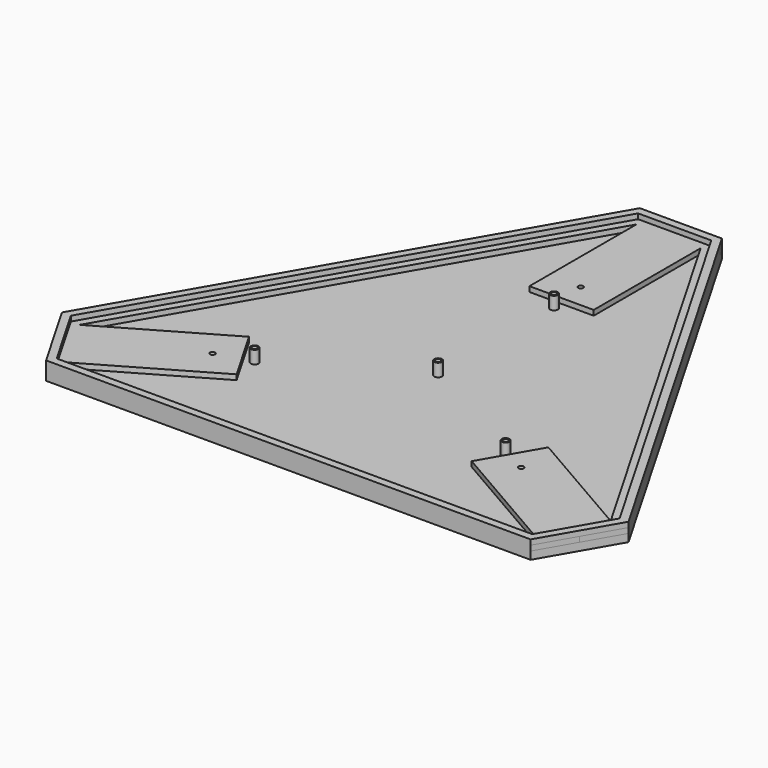
from build123d import *

# Parameters (mm, degrees)
F0_R     = 1
F1_DEPTH = 2
F2_R     = 1
F3_DEPTH = 3
F4_R     = 1.5
F4_R_2   = 1
F5_DEPTH = 5
F7_DEPTH = 2


with BuildPart() as f1:
    # F0 (on Top) → F1 (new body)
    with BuildSketch(Plane.XY):
        Polygon((0, 52), (0, 0), (25, 0), (25, 52), (12.5, 52), align=None)
        with Locations((12.5, 9.3)):
            Circle(F0_R, mode=Mode.SUBTRACT)
        Polygon((109.4948452239, -116), (115.7448452239, -105.1746824527), (70.7115242271, -79.1746824527), (64.4615242271, -90), (58.2115242271, -100.8253175473), (103.2448452239, -126.8253175473), align=None)
        with Locations((72.5155604823, -94.65)):
            Circle(F0_R, mode=Mode.SUBTRACT)
        Polygon((-90.7448452239, -105.1746824527), (0, 52), (12.5, 52), (12.5, 58), (-3.4641016151, 58), (-5.1961524227, 55), (-50.5685750346, -23.5873412263), (-97.6730484541, -105.1746824527), (-89.6909976466, -119), (-84.4948452239, -116), align=None)
        Polygon((12.5, 52), (25, 52), (115.7448452239, -105.1746824527), (109.4948452239, -116), (114.6909976466, -119), (122.6730484541, -105.1746824527), (75.5685750346, -23.5873412263), (30.1961524227, 55), (28.4641016151, 58), (12.5, 58), align=None)
        Polygon((-45.7115242271, -79.1746824527), (-90.7448452239, -105.1746824527), (-84.4948452239, -116), (-78.2448452239, -126.8253175473), (-33.2115242271, -100.8253175473), (-39.4615242271, -90), align=None)
        with Locations((-47.5155604823, -94.65)):
            Circle(F0_R, mode=Mode.SUBTRACT)
        Polygon((-78.2448452239, -126.8253175473), (-84.4948452239, -116), (-89.6909976466, -119), (-81.708946839, -132.8253175473), (12.5, -132.8253175473), (106.708946839, -132.8253175473), (114.6909976466, -119), (109.4948452239, -116), (103.2448452239, -126.8253175473), align=None)
    extrude(amount=F1_DEPTH)

    # F2 (on face) → F3 (join)
    with BuildSketch(Plane(origin=(0, 0, 0), x_dir=(1, 0, 0), z_dir=(0, 0, -1))):
        Polygon((-3.4641016151, -58), (28.4641016151, -58), (122.6730484541, 105.1746824527), (106.708946839, 132.8253175473), (-81.708946839, 132.8253175473), (-97.6730484541, 105.1746824527), align=None)
        with Locations((12.5, -9.3)):
            Circle(F2_R, mode=Mode.SUBTRACT)
        Polygon((25, 0), (0, 0), (0, -52), (-90.7448452239, 105.1746824527), (-45.7115242271, 79.1746824527), (-33.2115242271, 100.8253175473), (-78.2448452239, 126.8253175473), (103.2448452239, 126.8253175473), (58.2115242271, 100.8253175473), (70.7115242271, 79.1746824527), (115.7448452239, 105.1746824527), (25, -52), align=None, mode=Mode.SUBTRACT)
        with Locations((-47.5155604823, 94.65)):
            Circle(F2_R, mode=Mode.SUBTRACT)
        with Locations((72.5155604823, 94.65)):
            Circle(F2_R, mode=Mode.SUBTRACT)
        Polygon((0, -52), (0, 0), (25, 0), (25, -52), (115.7448452239, 105.1746824527), (70.7115242271, 79.1746824527), (58.2115242271, 100.8253175473), (103.2448452239, 126.8253175473), (-78.2448452239, 126.8253175473), (-33.2115242271, 100.8253175473), (-45.7115242271, 79.1746824527), (-90.7448452239, 105.1746824527), align=None)
        with Locations((12.5, 3.64)):
            Circle(F2_R, mode=Mode.SUBTRACT)
        with Locations((12.5, 60)):
            Circle(F2_R, mode=Mode.SUBTRACT)
        with Locations((-36.3091917573, 88.18)):
            Circle(F2_R, mode=Mode.SUBTRACT)
        with Locations((61.3091917573, 88.18)):
            Circle(F2_R, mode=Mode.SUBTRACT)
    extrude(amount=F3_DEPTH)

    # F4 (on face) → F5 (join)
    with BuildSketch(Plane.XY):
        with Locations((-36.3091917573, -88.18)):
            Circle(F4_R)
        with Locations((-36.3091917573, -88.18)):
            Circle(F4_R_2, mode=Mode.SUBTRACT)
        with Locations((61.3091917573, -88.18)):
            Circle(F4_R)
        with Locations((61.3091917573, -88.18)):
            Circle(F4_R_2, mode=Mode.SUBTRACT)
        with Locations((12.5, -60)):
            Circle(F4_R)
        with Locations((12.5, -60)):
            Circle(F4_R_2, mode=Mode.SUBTRACT)
        with Locations((12.5, -3.64)):
            Circle(F4_R)
        with Locations((12.5, -3.64)):
            Circle(F4_R_2, mode=Mode.SUBTRACT)
    extrude(amount=F5_DEPTH)

    # F6 (on face) → F7 (join)
    with BuildSketch(Plane.XY.offset(2)):
        Polygon((106.708946839, -132.8253175473), (122.6730484541, -105.1746824527), (28.4641016151, 58), (-3.4641016151, 58), (-97.6730484541, -105.1746824527), (-81.708946839, -132.8253175473), align=None)
        Polygon((-94.208946839, -105.1746824527), (-47.9704988233, -25.0873412263), (-1.7320508076, 55), (12.5, 55), (26.7320508076, 55), (72.9704988233, -25.0873412263), (119.208946839, -105.1746824527), (112.0929214352, -117.5), (104.9768960314, -129.8253175473), (12.5, -129.8253175473), (-79.9768960314, -129.8253175473), (-87.0929214352, -117.5), align=None, mode=Mode.SUBTRACT)
    extrude(amount=F7_DEPTH)


solid = f1.part
